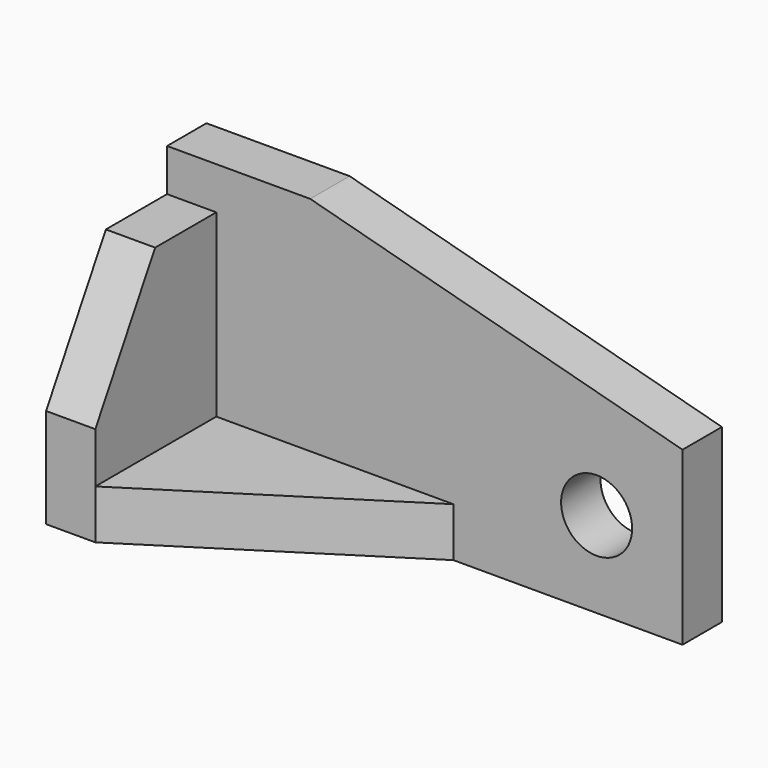
from build123d import *

# Parameters (mm, degrees)
F1_DEPTH = 10.922
F2_DEPTH = 60.198
F0_W     = 10.922
F0_H     = 33.528
F3_DEPTH = 50.8
F4_R     = 7.874
F6_DEPTH = 25.4
F7_DEPTH = 25.4
F8_DEPTH = 10.923


with BuildPart() as f1:
    # F0 (on Top) → F1 (new body)
    with BuildSketch(Plane.XY):
        Polygon((8.963523, -25.18613), (-22.786477, -25.18613), (-43.614477, -25.18613), (-43.614477, -58.71413), align=None)
    extrude(amount=F1_DEPTH)

    # F0 (on Top) → F2 (join)
    with BuildSketch(Plane.XY):
        Polygon((-22.786477, -14.26413), (-54.536477, -14.26413), (-54.536477, -25.18613), (-43.614477, -25.18613), (-22.786477, -25.18613), align=None)
        Polygon((59.763523, -14.26413), (-22.786477, -14.26413), (-22.786477, -25.18613), (8.963523, -25.18613), (59.763523, -25.18613), align=None)
    extrude(amount=F2_DEPTH)

    # F0 (on Top) → F3 (join)
    with BuildSketch(Plane.XY):
        with Locations((-49.075477, -41.95013)):
            Rectangle(F0_W, F0_H)
    extrude(amount=F3_DEPTH)

    # F4 (on face) → F6 (cut)
    with BuildSketch(Plane.XZ.offset(25.18613)):
        with Locations((40.713523, 19.05)):
            Circle(F4_R)
    extrude(amount=-F6_DEPTH, mode=Mode.SUBTRACT)

    # F5 (on face) → F7 (cut)
    with BuildSketch(Plane.YZ.offset(-43.614477)):
        Polygon((-58.71413, 50.8), (-58.71413, 22.098), (-42.143022, 50.8), align=None)
    extrude(amount=-F7_DEPTH, mode=Mode.SUBTRACT)

    # F4 (on face) → F8 (cut, through all)
    with BuildSketch(Plane.XZ.offset(25.18613)):
        Polygon((59.763523, 60.198), (-22.786477, 60.198), (59.763523, 38.078794), align=None)
    extrude(amount=-F8_DEPTH, mode=Mode.SUBTRACT)


solid = f1.part
